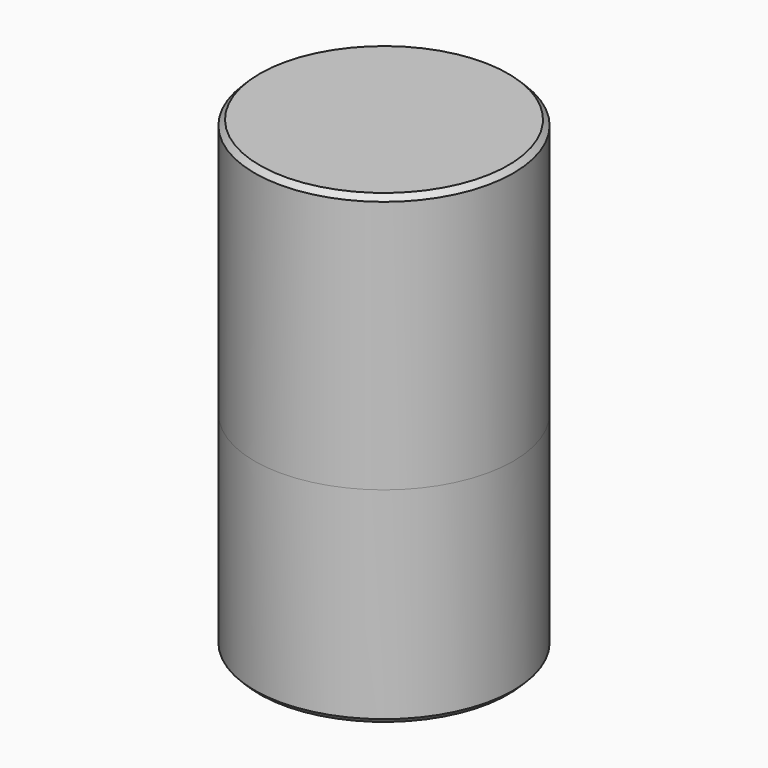
from build123d import *

# Parameters (mm, degrees)
F0_W    = 3
F0_H    = 2
F0_W_2  = 47
F4_SIZE = 2
F5_R    = 5
F6_SIZE = 2
F7_R    = 5


with BuildPart() as f1:
    # F0 (on Front) → F1 (revolve)
    with BuildSketch(Plane.XZ):
        with Locations((-48.5, 129)):
            Rectangle(F0_W, F0_H)
        Polygon((-47, 128), (-50, 128), (-50, 30), (-48.001913, 30), (-48.001913, 33), (-47, 33), align=None)
        with Locations((-23.5, 129)):
            Rectangle(F0_W_2, F0_H)
    revolve(axis=Axis((0, 0, 129), (0, 0, -1)))

    # F6
    f6_edges = [f1.edges().sort_by_distance(p)[0] for p in [
        (50, 0, 130),
    ]]
    chamfer(f6_edges, length=F6_SIZE)

    # F7
    f7_edges = [f1.edges().sort_by_distance(p)[0] for p in [
        (47, 0, 128),
    ]]
    fillet(f7_edges, radius=F7_R)


with BuildPart() as f3:
    # F2 (on Front) → F3 (revolve)
    with BuildSketch(Plane.XZ):
        Polygon((-47.7, 33), (-47.7, 30), (-50, 30), (-50, -50), (-47, -50), (0, -50), (0, -48), (-47, -48), (-47, 33), align=None)
    revolve(axis=Axis((0, 0, -49), (0, 0, 1)))

    # F4
    f4_edges = [f3.edges().sort_by_distance(p)[0] for p in [
        (50, 0, -50),
    ]]
    chamfer(f4_edges, length=F4_SIZE)

    # F5
    f5_edges = [f3.edges().sort_by_distance(p)[0] for p in [
        (47, 0, -48),
    ]]
    fillet(f5_edges, radius=F5_R)


solid = Compound([f1.part, f3.part])
